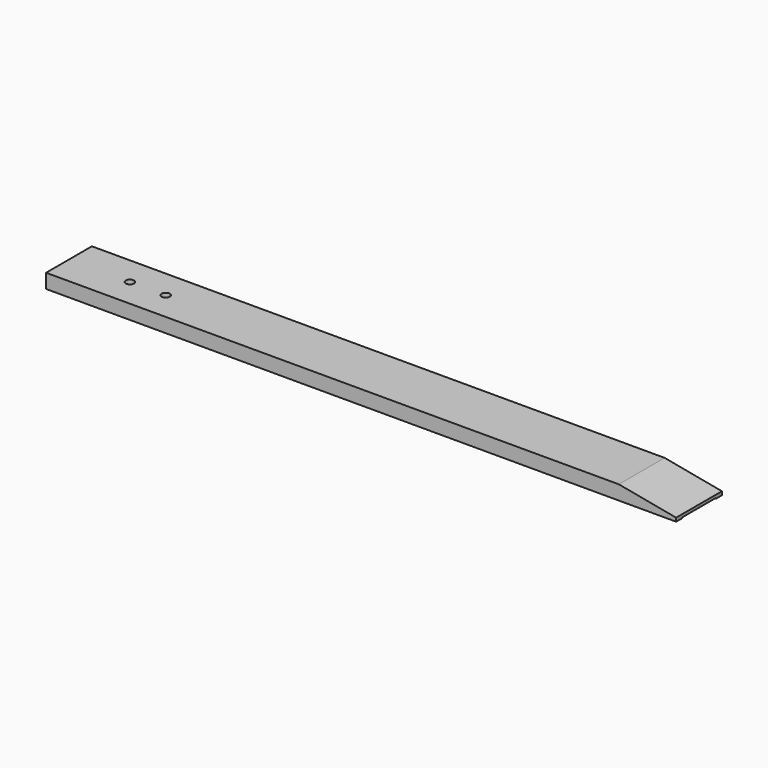
from build123d import *

# Parameters (mm, degrees)
F0_W           = 279.4
F0_H           = 25.4
F1_DEPTH       = 3.175
F3_DEPTH       = 25.4
F4_W           = 279.4
F4_H           = 19.05
F5_DEPTH       = 0.3175
F7_D           = 3.6576
F7_CSINK_D     = 7.7978
F7_CSINK_ANGLE = 82


with BuildPart() as f1:
    # F0 (on Top) → F1 (new body, symmetric)
    with BuildSketch(Plane.XY):
        Rectangle(F0_W, F0_H)
    extrude(amount=F1_DEPTH, both=True)

    # F2 (on face) → F3 (cut)
    with BuildSketch(Plane.XZ.offset(12.7)):
        Polygon((139.7, 3.175), (114.3, 3.175), (139.7, -1.5875), align=None)
    extrude(amount=-F3_DEPTH, mode=Mode.SUBTRACT)

    # F4 (on face) → F5 (cut)
    with BuildSketch(Plane(origin=(0, 0, -3.175), x_dir=(1, 0, 0), z_dir=(0, 0, -1))):
        Rectangle(F4_W, F4_H)
    extrude(amount=-F5_DEPTH, mode=Mode.SUBTRACT)

    # F7 (through all)
    with Locations(Plane(origin=(0, 0, -2.8575), x_dir=(1, 0, 0), z_dir=(0, 0, -1))):
        with Locations((-112.7125, 0), (-96.8375, 0)):
            CounterSinkHole(F7_D / 2, F7_CSINK_D / 2, counter_sink_angle=F7_CSINK_ANGLE)


solid = f1.part
